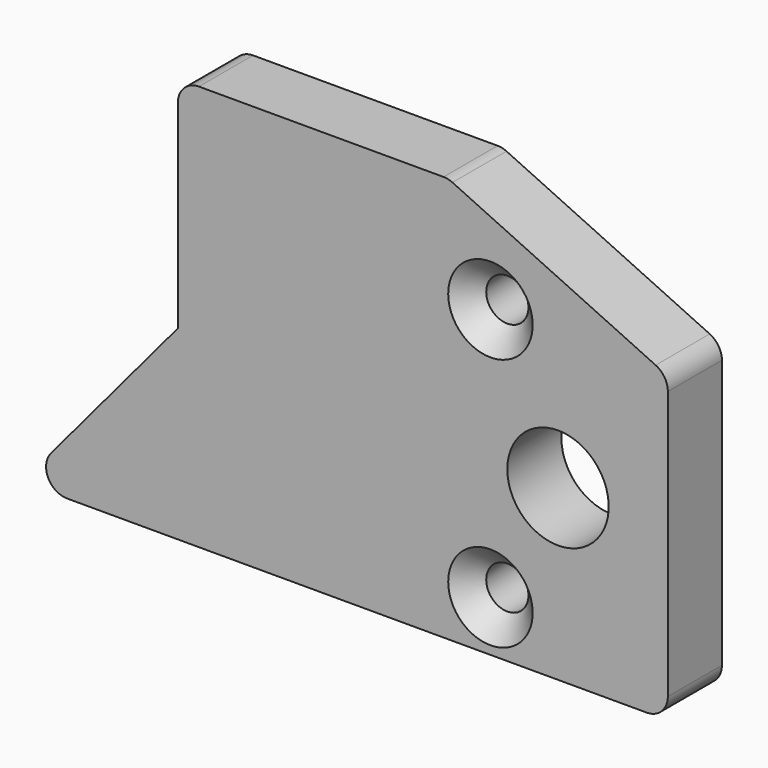
from build123d import *

# Parameters (mm, degrees)
F1_DEPTH       = 8
F2_D           = 5
F2_CSINK_D     = 10
F2_CSINK_ANGLE = 90
F3_D           = 12
F4_R           = 2.5


with BuildPart() as f1:
    # F0 (on Front) → F1 (new body)
    with BuildSketch(Plane.XZ):
        Polygon((29, 11.876001), (3, 24), (-29, 24), (-29, -2), (-47.460192, -24), (3, -24), (29, -24), align=None)
    extrude(amount=-F1_DEPTH)

    # F2 (through all)
    with Locations(Plane.XZ):
        with Locations((8, -18), (8, 12)):
            CounterSinkHole(F2_D / 2, F2_CSINK_D / 2, counter_sink_angle=F2_CSINK_ANGLE)

    # F3 (through all)
    with Locations(Plane.XZ):
        with Locations((16, -4)):
            Hole(F3_D / 2)

    # F4
    f4_edges = [f1.edges().sort_by_distance(p)[0] for p in [
        (-47.460192, 4, -24),
        (-29, 4, 24),
        (3, 4, 24),
        (29, 4, 11.876001),
        (29, 4, -24),
    ]]
    fillet(f4_edges, radius=F4_R)


solid = f1.part
